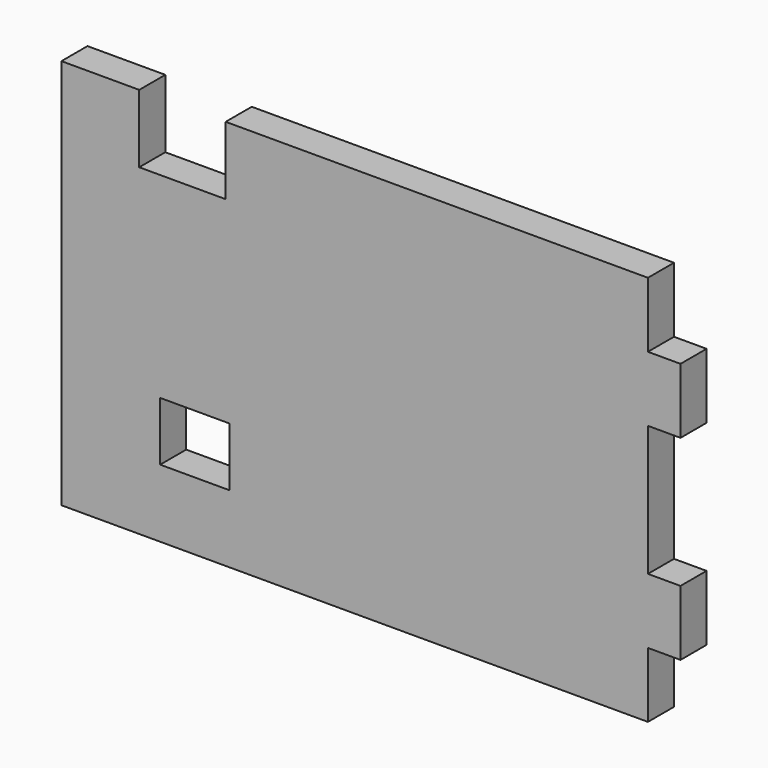
from build123d import *

# Parameters (mm, degrees)
F0_W     = 26.952473
F0_H     = 22.909606
F1_DEPTH = 6.35


with BuildPart() as f1:
    # F0 (on Front) → F1 (new body, symmetric)
    with BuildSketch(Plane.XZ):
        Polygon((107.95, 50.8), (107.95, 76.2), (-56.633, 76.2), (-56.633, 49.643206), (-90.323596, 49.643206), (-90.323596, 76.2), (-120.65, 76.2), (-120.65, -76.2), (107.95, -76.2), (107.95, -50.8), (120.65, -50.8), (120.65, -25.4), (107.95, -25.4), (107.95, 25.4), (120.65, 25.4), (120.65, 50.8), align=None)
        with Locations((-68.692616, -38.293824)):
            Rectangle(F0_W, F0_H, mode=Mode.SUBTRACT)
    extrude(amount=F1_DEPTH, both=True)


solid = f1.part
